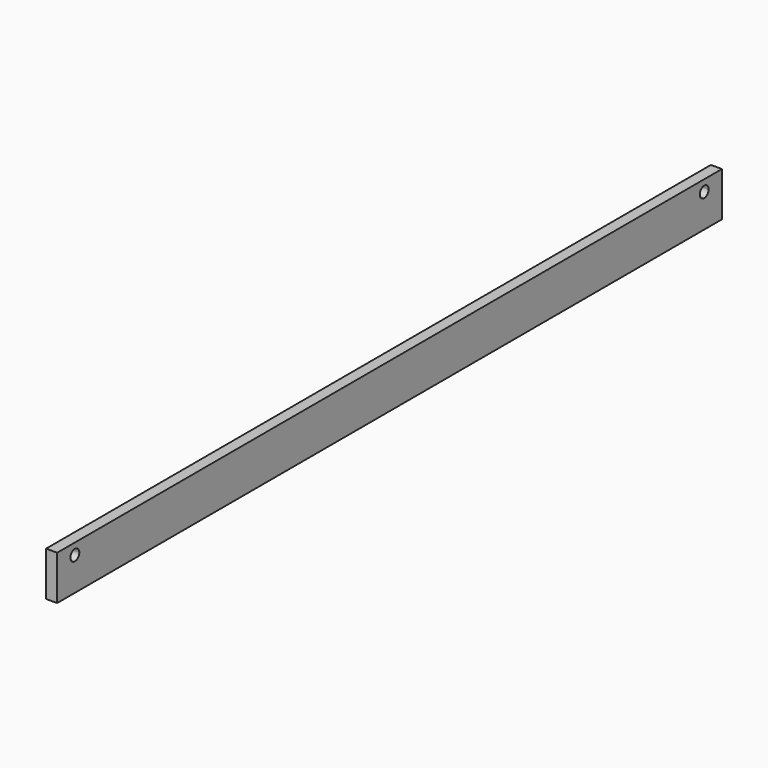
from build123d import *

# Parameters (mm, degrees)
F0_W     = 1905
F0_H     = 101.6
F1_DEPTH = 25.4
F3_DEPTH = 25.401


with BuildPart() as f1:
    # F0 (on Right) → F1 (new body)
    with BuildSketch(Plane.YZ):
        with Locations((952.5, 50.8)):
            Rectangle(F0_W, F0_H)
    extrude(amount=F1_DEPTH)

    # F2 (on face) → F3 (cut, through all)
    with BuildSketch(Plane.YZ.offset(25.4)):
        with BuildLine():
            ThreePointArc((63.5, 76.2), (59.780256, 85.180256), (50.8, 88.9))
            Line((50.8, 88.9), (50.8, 63.5))
            ThreePointArc((50.8, 63.5), (59.780256, 67.219744), (63.5, 76.2))
        make_face()
        with BuildLine():
            Line((50.8, 63.5), (50.8, 88.9))
            ThreePointArc((50.8, 88.9), (38.1, 76.2), (50.8, 63.5))
        make_face()
        with BuildLine():
            ThreePointArc((1866.9, 76.2), (1863.180256, 85.180256), (1854.2, 88.9))
            Line((1854.2, 88.9), (1854.2, 63.5))
            ThreePointArc((1854.2, 63.5), (1863.180256, 67.219744), (1866.9, 76.2))
        make_face()
        with BuildLine():
            Line((1854.2, 63.5), (1854.2, 88.9))
            ThreePointArc((1854.2, 88.9), (1841.5, 76.2), (1854.2, 63.5))
        make_face()
    extrude(amount=-F3_DEPTH, mode=Mode.SUBTRACT)


solid = f1.part
